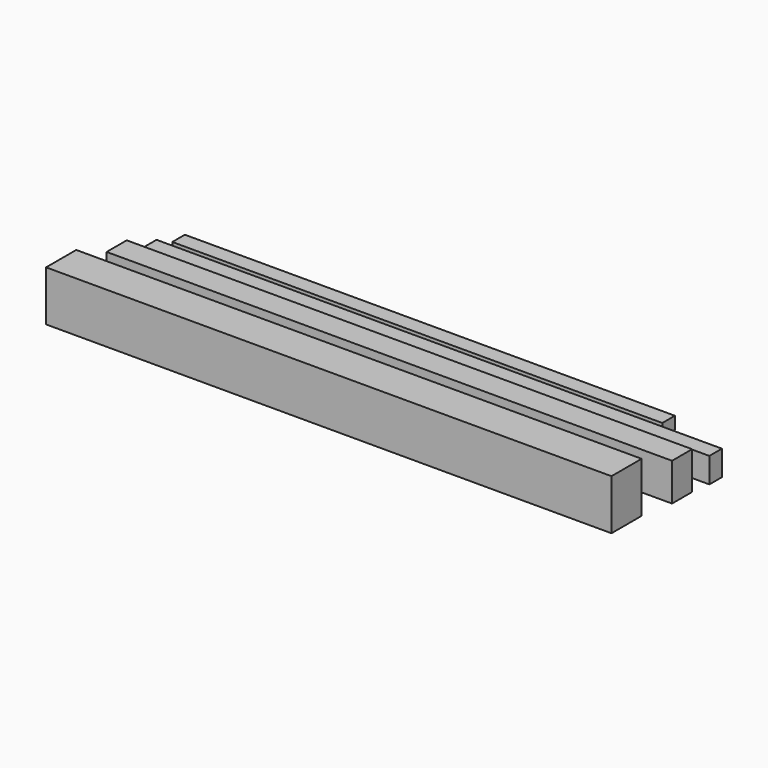
from build123d import *

# Parameters (mm, degrees)
F0_W     = 120
F0_H     = 160
F0_W_2   = 80
F0_H_2   = 120
F0_W_3   = 50
F0_H_3   = 80
F1_DEPTH = 1800
F0_H_4   = 40
F2_DEPTH = 1560


with BuildPart() as f1:
    # F0 (on Right) → F1 (new body)
    with BuildSketch(Plane.YZ):
        with Locations((-80.338807, 101.486303)):
            Rectangle(F0_W, F0_H)
        with Locations((140.6328, 66.764783)):
            Rectangle(F0_W_2, F0_H_2)
        with Locations((274.210179, 40)):
            Rectangle(F0_W_3, F0_H_3)
    extrude(amount=F1_DEPTH)


with BuildPart() as f2:
    # F0 (on Right) → F2 (new body)
    with BuildSketch(Plane.YZ):
        with Locations((386.968052, 28.409675)):
            Rectangle(F0_W_3, F0_H_4)
    extrude(amount=F2_DEPTH)


solid = Compound([f1.part, f2.part])
